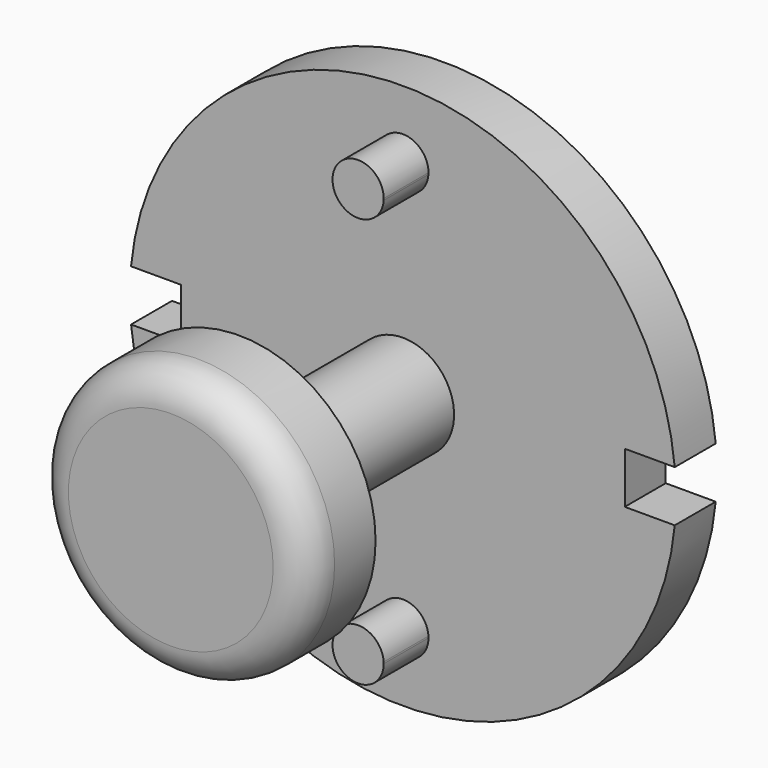
from build123d import *

# Parameters (mm, degrees)
F1_DEPTH = 19.05
F2_DEPTH = 76.2
F3_DEPTH = 20.828
F4_DEPTH = 38.1
F5_DEPTH = 63.5
F6_R     = 50.8
F6_R_2   = 19.05
F7_DEPTH = 31.75
F8_R     = 12.7


with BuildPart() as f1:
    # F0 (on Front) → F1 (new body)
    with BuildSketch(Plane.XZ):
        with BuildLine():
            Line((82.55, 9.525), (101.1525302452, 9.525))
            ThreePointArc((101.1525302452, 9.525), (0, 101.6), (-101.1525302452, 9.525))
            Line((-101.1525302452, 9.525), (-82.55, 9.525))
            Line((-82.55, 9.525), (-82.55, 0))
            Line((-82.55, 0), (-76.2, 0))
            ThreePointArc((-76.2, 0), (-57.1437924233, 50.4086003325), (-9.5063782813, 75.6046875))
            ThreePointArc((-9.5063782813, 75.6046875), (-0.2978018389, 85.7203434321), (9.525, 76.2))
            ThreePointArc((9.525, 76.2), (9.5203434321, 75.9021981611), (9.5063782813, 75.6046875))
            ThreePointArc((9.5063782813, 75.6046875), (57.1437924233, 50.4086003325), (76.2, 0))
            Line((76.2, 0), (82.55, 0))
            Line((82.55, 0), (82.55, 9.525))
        make_face()
        with BuildLine():
            ThreePointArc((-101.1525302452, -9.525), (0, -101.6), (101.1525302452, -9.525))
            Line((101.1525302452, -9.525), (82.55, -9.525))
            Line((82.55, -9.525), (82.55, 0))
            Line((82.55, 0), (76.2, 0))
            ThreePointArc((76.2, 0), (57.1437924233, -50.4086003325), (9.5063782813, -75.6046875))
            ThreePointArc((9.5063782813, -75.6046875), (9.5203434321, -75.9021981611), (9.525, -76.2))
            ThreePointArc((9.525, -76.2), (-0.2978018389, -85.7203434321), (-9.5063782813, -75.6046875))
            ThreePointArc((-9.5063782813, -75.6046875), (-57.1437924233, -50.4086003325), (-76.2, 0))
            Line((-76.2, 0), (-82.55, 0))
            Line((-82.55, 0), (-82.55, -9.525))
            Line((-82.55, -9.525), (-101.1525302452, -9.525))
        make_face()
        with BuildLine():
            ThreePointArc((9.5063782813, -75.6046875), (57.1437924233, -50.4086003325), (76.2, 0))
            Line((76.2, 0), (50.8, 0))
            ThreePointArc((50.8, 0), (0, -50.8), (-50.8, 0))
            Line((-50.8, 0), (-76.2, 0))
            ThreePointArc((-76.2, 0), (-57.1437924233, -50.4086003325), (-9.5063782813, -75.6046875))
            ThreePointArc((-9.5063782813, -75.6046875), (0, -66.675), (9.5063782813, -75.6046875))
        make_face()
        with BuildLine():
            ThreePointArc((-50.8, 0), (0, -50.8), (50.8, 0))
            Line((50.8, 0), (25.4, 0))
            ThreePointArc((25.4, 0), (0, -25.4), (-25.4, 0))
            Line((-25.4, 0), (-50.8, 0))
        make_face()
        with BuildLine():
            Line((25.4, 0), (50.8, 0))
            ThreePointArc((50.8, 0), (0, 50.8), (-50.8, 0))
            Line((-50.8, 0), (-25.4, 0))
            ThreePointArc((-25.4, 0), (0, 25.4), (25.4, 0))
        make_face()
        with BuildLine():
            Line((50.8, 0), (76.2, 0))
            ThreePointArc((76.2, 0), (57.1437924233, 50.4086003325), (9.5063782813, 75.6046875))
            ThreePointArc((9.5063782813, 75.6046875), (0, 66.675), (-9.5063782813, 75.6046875))
            ThreePointArc((-9.5063782813, 75.6046875), (-57.1437924233, 50.4086003325), (-76.2, 0))
            Line((-76.2, 0), (-50.8, 0))
            ThreePointArc((-50.8, 0), (0, 50.8), (50.8, 0))
        make_face()
        with BuildLine():
            ThreePointArc((-19.05, 0), (0, -19.05), (19.05, 0))
            Line((19.05, 0), (0, 0))
            Line((0, 0), (-19.05, 0))
        make_face()
        with BuildLine():
            ThreePointArc((-19.05, 0), (0, -19.05), (19.05, 0))
            Line((19.05, 0), (0, 0))
            Line((0, 0), (-19.05, 0))
        make_face()
        with BuildLine():
            Line((0, 0), (19.05, 0))
            ThreePointArc((19.05, 0), (0, 19.05), (-19.05, 0))
            Line((-19.05, 0), (0, 0))
        make_face()
        with BuildLine():
            ThreePointArc((9.525, -76.2), (9.5203434321, -75.9021981611), (9.5063782813, -75.6046875))
            ThreePointArc((9.5063782813, -75.6046875), (0, -76.2), (-9.5063782813, -75.6046875))
            ThreePointArc((-9.5063782813, -75.6046875), (-0.2978018389, -85.7203434321), (9.525, -76.2))
        make_face()
        with BuildLine():
            ThreePointArc((-9.5063782813, 75.6046875), (0, 66.675), (9.5063782813, 75.6046875))
            ThreePointArc((9.5063782813, 75.6046875), (0, 76.2), (-9.5063782813, 75.6046875))
        make_face()
        with BuildLine():
            ThreePointArc((-9.5063782813, 75.6046875), (0, 76.2), (9.5063782813, 75.6046875))
            ThreePointArc((9.5063782813, 75.6046875), (9.5203434321, 75.9021981611), (9.525, 76.2))
            ThreePointArc((9.525, 76.2), (-0.2978018389, 85.7203434321), (-9.5063782813, 75.6046875))
        make_face()
        with BuildLine():
            ThreePointArc((-9.5063782813, -75.6046875), (0, -76.2), (9.5063782813, -75.6046875))
            ThreePointArc((9.5063782813, -75.6046875), (0, -66.675), (-9.5063782813, -75.6046875))
        make_face()
        with BuildLine():
            ThreePointArc((-25.4, 0), (0, -25.4), (25.4, 0))
            Line((25.4, 0), (19.05, 0))
            ThreePointArc((19.05, 0), (0, -19.05), (-19.05, 0))
            Line((-19.05, 0), (-25.4, 0))
        make_face()
        with BuildLine():
            Line((19.05, 0), (25.4, 0))
            ThreePointArc((25.4, 0), (0, 25.4), (-25.4, 0))
            Line((-25.4, 0), (-19.05, 0))
            ThreePointArc((-19.05, 0), (0, 19.05), (19.05, 0))
        make_face()
    extrude(amount=-F1_DEPTH)

    # F0 (on Front) → F2 (join)
    with BuildSketch(Plane.XZ):
        with BuildLine():
            Line((0, 0), (19.05, 0))
            ThreePointArc((19.05, 0), (0, 19.05), (-19.05, 0))
            Line((-19.05, 0), (0, 0))
        make_face()
        with BuildLine():
            ThreePointArc((-19.05, 0), (0, -19.05), (19.05, 0))
            Line((19.05, 0), (0, 0))
            Line((0, 0), (-19.05, 0))
        make_face()
    extrude(amount=F2_DEPTH)

    # F0 (on Front) → F3 (join)
    with BuildSketch(Plane.XZ):
        with BuildLine():
            ThreePointArc((-9.5063782813, -75.6046875), (0, -76.2), (9.5063782813, -75.6046875))
            ThreePointArc((9.5063782813, -75.6046875), (0, -66.675), (-9.5063782813, -75.6046875))
        make_face()
        with BuildLine():
            ThreePointArc((9.525, -76.2), (9.5203434321, -75.9021981611), (9.5063782813, -75.6046875))
            ThreePointArc((9.5063782813, -75.6046875), (0, -76.2), (-9.5063782813, -75.6046875))
            ThreePointArc((-9.5063782813, -75.6046875), (-0.2978018389, -85.7203434321), (9.525, -76.2))
        make_face()
        with BuildLine():
            ThreePointArc((-9.5063782813, 75.6046875), (0, 66.675), (9.5063782813, 75.6046875))
            ThreePointArc((9.5063782813, 75.6046875), (0, 76.2), (-9.5063782813, 75.6046875))
        make_face()
        with BuildLine():
            ThreePointArc((-9.5063782813, 75.6046875), (0, 76.2), (9.5063782813, 75.6046875))
            ThreePointArc((9.5063782813, 75.6046875), (9.5203434321, 75.9021981611), (9.525, 76.2))
            ThreePointArc((9.525, 76.2), (-0.2978018389, 85.7203434321), (-9.5063782813, 75.6046875))
        make_face()
    extrude(amount=F3_DEPTH)

    # F0 (on Front) → F4 (join)
    with BuildSketch(Plane.XZ):
        with BuildLine():
            Line((19.05, 0), (25.4, 0))
            ThreePointArc((25.4, 0), (0, 25.4), (-25.4, 0))
            Line((-25.4, 0), (-19.05, 0))
            ThreePointArc((-19.05, 0), (0, 19.05), (19.05, 0))
        make_face()
        with BuildLine():
            ThreePointArc((-25.4, 0), (0, -25.4), (25.4, 0))
            Line((25.4, 0), (19.05, 0))
            ThreePointArc((19.05, 0), (0, -19.05), (-19.05, 0))
            Line((-19.05, 0), (-25.4, 0))
        make_face()
    extrude(amount=-F4_DEPTH)

    # F5 (add): a face of the model
    f5_faces = [f1.faces().sort_by_distance(p)[0] for p in [
        (0, 19.05, 0),
    ]]
    extrude(f5_faces, amount=F5_DEPTH)

    # F6 (on face) → F7 (join)
    with BuildSketch(Plane.XZ.offset(76.2)):
        Circle(F6_R)
        Circle(F6_R_2, mode=Mode.SUBTRACT)
        Circle(F6_R_2)
    extrude(amount=F7_DEPTH)

    # F8
    f8_edges = [f1.edges().sort_by_distance(p)[0] for p in [
        (-50.8, -107.95, 0),
    ]]
    fillet(f8_edges, radius=F8_R)


solid = f1.part
